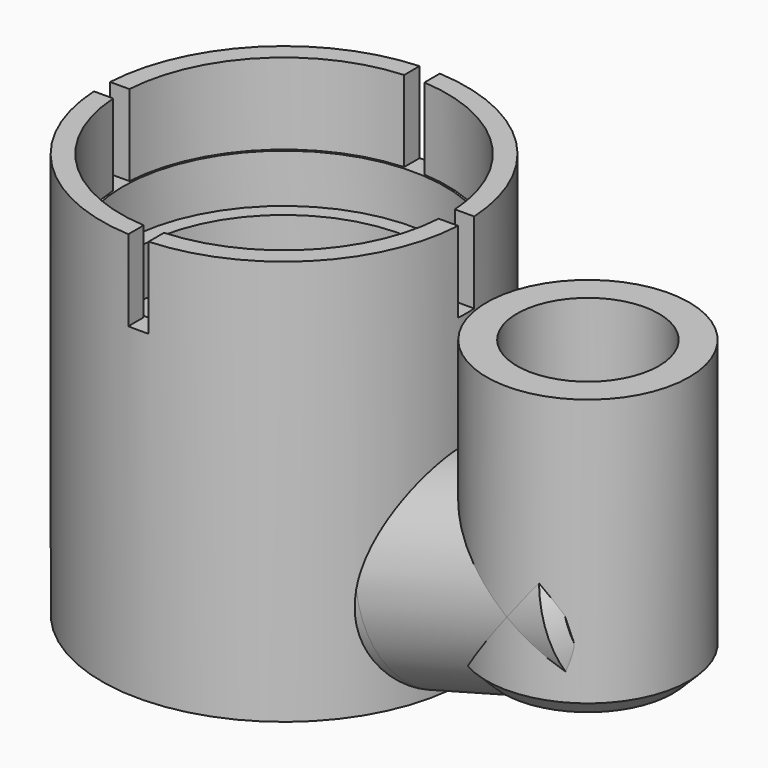
from build123d import *

# Parameters (mm, degrees)
SKETCH_R          = 45
PAD_DEPTH         = 100
SKETCH001_R       = 40.25
POCKET_DEPTH      = 20
SKETCH002_R       = 39.75
POCKET001_DEPTH   = 12
SKETCH003_R       = 36
POCKET002_DEPTH   = 12
SKETCH004_R       = 31
POCKET003_DEPTH   = 56.001
SKETCH005_W       = 5
SKETCH005_H       = 20
POCKET004_DEPTH   = 90.001
SKETCH006_W       = 5
SKETCH006_H       = 20
POCKET005_DEPTH   = 90.001
SKETCH007_R       = 25
PAD001_DEPTH      = 50
PAD001_DEPTH_BACK = 3
SKETCH009_R       = 25
PAD002_DEPTH      = 70
SKETCH011_R       = 17.5
POCKET006_DEPTH   = 70
SKETCH010_R       = 17.5
POCKET007_DEPTH   = 65
CHAMFER_SIZE      = 3
CHAMFER001_SIZE   = 2
CHAMFER002_SIZE   = 4
SKETCH012_R       = 1.5
POCKET008_DEPTH   = 10


with BuildPart() as part:
    # Sketch → Pad (new body)
    with BuildSketch(Plane.XY):
        Circle(SKETCH_R)
    extrude(amount=PAD_DEPTH)

    # Sketch001 (on Face3 of Pad) → Pocket (cut)
    with BuildSketch(Plane.XY.offset(100)):
        Circle(SKETCH001_R)
    extrude(amount=-POCKET_DEPTH, mode=Mode.SUBTRACT)

    # Sketch002 (on Face5 of Pocket) → Pocket001 (cut)
    with BuildSketch(Plane.XY.offset(80)):
        Circle(SKETCH002_R)
    extrude(amount=-POCKET001_DEPTH, mode=Mode.SUBTRACT)

    # Sketch003 (on Face7 of Pocket001) → Pocket002 (cut)
    with BuildSketch(Plane.XY.offset(68)):
        Circle(SKETCH003_R)
    extrude(amount=-POCKET002_DEPTH, mode=Mode.SUBTRACT)

    # Sketch004 (on Face9 of Pocket002) → Pocket003 (cut, through all)
    with BuildSketch(Plane.XY.offset(56)):
        Circle(SKETCH004_R)
    extrude(amount=-POCKET003_DEPTH, mode=Mode.SUBTRACT)

    # Sketch005 (on DatumPlane) → Pocket004 (cut, through all)
    with BuildSketch(Plane(origin=(45, 0, 100), x_dir=(0, 1, 0), z_dir=(1, 0, 0))):
        with Locations((0, -10)):
            Rectangle(SKETCH005_W, SKETCH005_H)
    extrude(amount=-POCKET004_DEPTH, mode=Mode.SUBTRACT)

    # Sketch006 (on DatumPlane) → Pocket005 (cut, through all)
    with BuildSketch(Plane(origin=(45, -45, 100), x_dir=(1, 0, 0), z_dir=(0, -1, 0))):
        with Locations((-45, -10)):
            Rectangle(SKETCH006_W, SKETCH006_H)
    extrude(amount=-POCKET005_DEPTH, mode=Mode.SUBTRACT)

    # Sketch007 (on DatumPlane) → Pad001 (join, two sides)
    with BuildSketch(Plane(origin=(45, 0, 0), x_dir=(0, 1, 0), z_dir=(0.965926, 0, 0.258819))) as pad001_sk:
        with Locations((0, 25)):
            Circle(SKETCH007_R)
    extrude(amount=PAD001_DEPTH)
    extrude(pad001_sk.sketch, amount=-PAD001_DEPTH_BACK)

    # Sketch009 (on DatumPlane) → Pad002 (join)
    with BuildSketch(Plane(origin=(0, 0, 14), x_dir=(1, 0, 0), z_dir=(0, 0, -1))):
        with Locations((75, 0)):
            Circle(SKETCH009_R)
    extrude(amount=-PAD002_DEPTH)

    # Sketch011 (on Face36 of Pad002) → Pocket006 (cut)
    with BuildSketch(Plane(origin=(90.281863, 0, 24.190952), x_dir=(0, 1, 0), z_dir=(0.965926, 0, 0.258819))):
        with Locations((0, 13.353143)):
            Circle(SKETCH011_R)
    extrude(amount=-POCKET006_DEPTH, mode=Mode.SUBTRACT)

    # Sketch010 (on Face34 of Pad002) → Pocket007 (cut)
    with BuildSketch(Plane.XY.offset(84)):
        with Locations((75, 0)):
            Circle(SKETCH010_R)
    extrude(amount=-POCKET007_DEPTH, mode=Mode.SUBTRACT)

    # Chamfer
    chamfer_edges = [part.edges().sort_by_distance(p)[0] for p in [
        (87.814959, -24.706156, 33.397562),
    ]]
    chamfer(chamfer_edges, length=CHAMFER_SIZE)

    # Chamfer001
    chamfer001_edges = [part.edges().sort_by_distance(p)[0] for p in [
        (89.020736, 23.517669, 28.897543),
        (85.587188, 24.537669, 41.711719),
    ]]
    chamfer(chamfer001_edges, length=CHAMFER001_SIZE)

    # Chamfer002
    chamfer002_edges = [part.edges().sort_by_distance(p)[0] for p in [
        (86.019616, -22.440322, 14),
    ]]
    chamfer(chamfer002_edges, length=CHAMFER002_SIZE)

    # Sketch012 (on Face34 of Chamfer002) → Pocket008 (cut)
    with BuildSketch(Plane(origin=(0, 0, 0), x_dir=(1, 0, 0), z_dir=(0, 0, -1))):
        with Locations((0, 41.5)):
            Circle(SKETCH012_R)
        with Locations((5.984302, 41.066265)):
            Circle(SKETCH012_R)
        with Locations((11.843515, 39.774127)):
            Circle(SKETCH012_R)
        with Locations((17.455165, 37.650594)):
            Circle(SKETCH012_R)
        with Locations((22.701951, 34.740055)):
            Circle(SKETCH012_R)
        with Locations((27.474201, 31.103349)):
            Circle(SKETCH012_R)
        with Locations((31.67216, 26.816493)):
            Circle(SKETCH012_R)
        with Locations((35.20808, 21.969094)):
            Circle(SKETCH012_R)
        with Locations((38.008049, 16.662478)):
            Circle(SKETCH012_R)
        with Locations((40.013541, 11.007569)):
            Circle(SKETCH012_R)
        with Locations((41.182633, 5.122569)):
            Circle(SKETCH012_R)
        with Locations((41.49089, -0.869507)):
            Circle(SKETCH012_R)
        with Locations((40.931867, -6.843408)):
            Circle(SKETCH012_R)
        with Locations((39.51725, -12.674262)):
            Circle(SKETCH012_R)
        with Locations((37.276609, -18.240188)):
            Circle(SKETCH012_R)
        with Locations((34.256778, -23.42484)):
            Circle(SKETCH012_R)
        with Locations((30.520882, -28.119846)):
            Circle(SKETCH012_R)
        with Locations((26.147011, -32.227066)):
            Circle(SKETCH012_R)
        with Locations((21.226593, -35.660647)):
            Circle(SKETCH012_R)
        with Locations((15.862477, -38.348818)):
            Circle(SKETCH012_R)
        with Locations((10.166789, -40.235387)):
            Circle(SKETCH012_R)
        with Locations((4.258587, -41.280921)):
            Circle(SKETCH012_R)
        with Locations((-1.738633, -41.463564)):
            Circle(SKETCH012_R)
        with Locations((-7.69951, -40.779499)):
            Circle(SKETCH012_R)
        with Locations((-13.499445, -39.243025)):
            Circle(SKETCH012_R)
        with Locations((2, 34.94281)):
            Circle(SKETCH012_R)
        with Locations((6.958671, 34.301267)):
            Circle(SKETCH012_R)
        with Locations((12.714998, 32.608723)):
            Circle(SKETCH012_R)
        with Locations((17.231743, 30.464192)):
            Circle(SKETCH012_R)
        with Locations((22.181755, 27.073414)):
            Circle(SKETCH012_R)
        with Locations((25.813162, 23.636426)):
            Circle(SKETCH012_R)
        with Locations((28.91777, 19.717063)):
            Circle(SKETCH012_R)
        with Locations((31.43222, 15.39531)):
            Circle(SKETCH012_R)
        with Locations((33.305195, 10.759368)):
            Circle(SKETCH012_R)
        with Locations((34.498472, 5.903846)):
            Circle(SKETCH012_R)
        with Locations((34.9877, 0.927838)):
            Circle(SKETCH012_R)
        with Locations((34.762892, -4.067106)):
            Circle(SKETCH012_R)
        with Locations((33.828638, -8.979047)):
            Circle(SKETCH012_R)
        with Locations((32.204003, -13.707743)):
            Circle(SKETCH012_R)
        with Locations((29.922143, -18.156688)):
            Circle(SKETCH012_R)
        with Locations((27.029628, -22.235089)):
            Circle(SKETCH012_R)
        with Locations((23.585488, -25.859713)):
            Circle(SKETCH012_R)
        with Locations((19.660011, -28.956588)):
            Circle(SKETCH012_R)
        with Locations((14.425411, -31.888987)):
            Circle(SKETCH012_R)
        with Locations((9.73428, -33.619099)):
            Circle(SKETCH012_R)
        with Locations((4.84449, -34.663106)):
            Circle(SKETCH012_R)
        with Locations((-0.144168, -34.999703)):
            Circle(SKETCH012_R)
        with Locations((-5.129883, -34.62202)):
            Circle(SKETCH012_R)
        with Locations((-10.010906, -33.537766)):
            Circle(SKETCH012_R)
        with Locations((-19.017203, -36.886258)):
            Circle(SKETCH012_R)
        with Locations((-24.137446, -33.758461)):
            Circle(SKETCH012_R)
        with Locations((-28.753147, -29.925016)):
            Circle(SKETCH012_R)
        with Locations((-32.767824, -25.466051)):
            Circle(SKETCH012_R)
        with Locations((-36.097558, -20.474772)):
            Circle(SKETCH012_R)
        with Locations((-38.67275, -15.055511)):
            Circle(SKETCH012_R)
        with Locations((-40.439569, -9.321546)):
            Circle(SKETCH012_R)
        with Locations((-41.361085, -3.392734)):
            Circle(SKETCH012_R)
        with Locations((-41.418034, 2.606995)):
            Circle(SKETCH012_R)
        with Locations((-33.245323, 24.839454)):
            Circle(SKETCH012_R)
        with Locations((-40.609227, 8.552231)):
            Circle(SKETCH012_R)
        with Locations((-38.95157, 14.318701)):
            Circle(SKETCH012_R)
        with Locations((-36.479712, 19.785868)):
            Circle(SKETCH012_R)
        with Locations((-29.316011, 29.373823)):
            Circle(SKETCH012_R)
        with Locations((-24.773909, 33.294195)):
            Circle(SKETCH012_R)
        with Locations((-14.687626, -31.769067)):
            Circle(SKETCH012_R)
        with Locations((-19.064598, -29.35202)):
            Circle(SKETCH012_R)
        with Locations((-23.052497, -26.335953)):
            Circle(SKETCH012_R)
        with Locations((-26.569936, -22.782416)):
            Circle(SKETCH012_R)
        with Locations((-29.545132, -18.763933)):
            Circle(SKETCH012_R)
        with Locations((-31.917366, -14.362512)):
            Circle(SKETCH012_R)
        with Locations((-33.638225, -9.667979)):
            Circle(SKETCH012_R)
        with Locations((-34.795217, -3.780588)):
            Circle(SKETCH012_R)
        with Locations((-34.978869, 1.216038)):
            Circle(SKETCH012_R)
        with Locations((-34.448665, 6.187847)):
            Circle(SKETCH012_R)
        with Locations((-33.215428, 11.033373)):
            Circle(SKETCH012_R)
        with Locations((-31.304325, 15.653729)):
            Circle(SKETCH012_R)
        with Locations((-28.754358, 19.954621)):
            Circle(SKETCH012_R)
        with Locations((-19.713962, 36.518622)):
            Circle(SKETCH012_R)
        with Locations((-14.241935, 38.979704)):
            Circle(SKETCH012_R)
        with Locations((-8.472211, 40.625997)):
            Circle(SKETCH012_R)
        with Locations((-4.023654, 41.304482)):
            Circle(SKETCH012_R)
        with Locations((-25.969847, 23.464165)):
            Circle(SKETCH012_R)
        with Locations((-22.476861, 26.828915)):
            Circle(SKETCH012_R)
        with Locations((-18.32219, 29.821089)):
            Circle(SKETCH012_R)
        with Locations((-14.097292, 32.035392)):
            Circle(SKETCH012_R)
        with Locations((-9.51413, 33.682063)):
            Circle(SKETCH012_R)
        with Locations((-4.120127, 34.756648)):
            Circle(SKETCH012_R)
    extrude(amount=-POCKET008_DEPTH, mode=Mode.SUBTRACT)


solid = part.part
